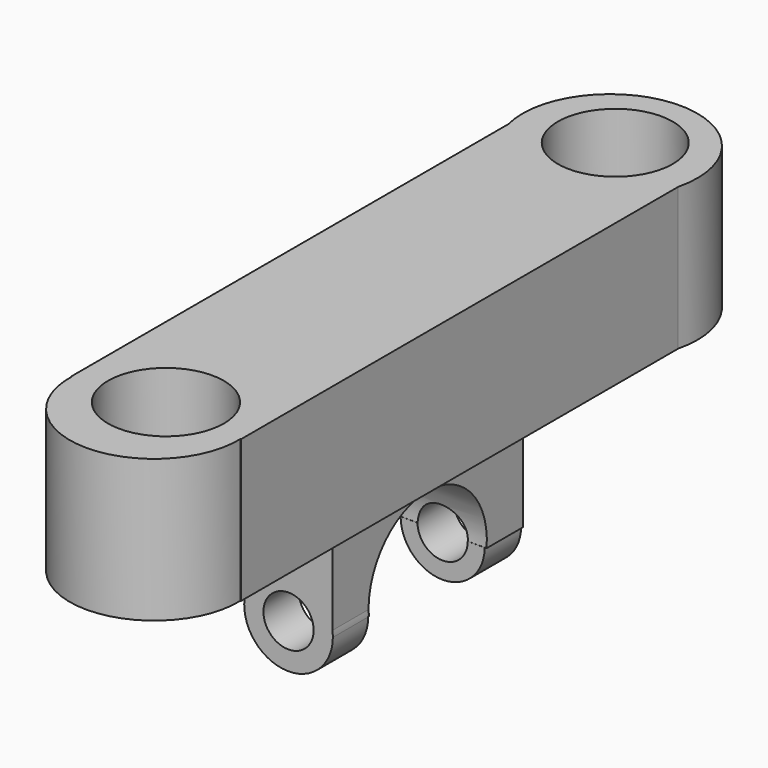
from build123d import *

# Parameters (mm, degrees)
F0_W      = 30.2820764482
F0_H      = 101.4822497964
F3_DEPTH  = 25.4
F2_R      = 15.0499216081
F4_DEPTH  = 25.4
F1_R      = 15.5943038306
F5_DEPTH  = 25.4
F6_R      = 10.2440117392
F7_DEPTH  = 49.022
F8_R      = 10.3251238381
F9_DEPTH  = 31.75
F10_W     = 15.6584940851
F10_H     = 42.4823574722
F11_DEPTH = 20.066
F12_R     = 13.1812227962
F13_DEPTH = 25.4
F14_DEPTH = 25.4
F16_DEPTH = 8.128
F18_DEPTH = 7.874
F19_R     = 4.4761775303
F20_DEPTH = 55.118


with BuildPart() as f3:
    # F0 (on Top) → F3 (new body)
    with BuildSketch(Plane.XY):
        Rectangle(F0_W, F0_H)
    extrude(amount=F3_DEPTH)

    # F2 (on Top) → F4 (join)
    with BuildSketch(Plane.XY):
        with Locations((0, -51.2032657862)):
            Circle(F2_R)
    extrude(amount=F4_DEPTH)

    # F1 (on Top) → F5 (join)
    with BuildSketch(Plane.XY):
        with Locations((0, 50.4214018583)):
            Circle(F1_R)
    extrude(amount=F5_DEPTH)

    # F6 (on Top) → F7 (cut)
    with BuildSketch(Plane.XY):
        with Locations((0, 51.5931844711)):
            Circle(F6_R)
    extrude(amount=F7_DEPTH, mode=Mode.SUBTRACT)

    # F8 (on Top) → F9 (cut)
    with BuildSketch(Plane.XY):
        with Locations((0, -48.5663115978)):
            Circle(F8_R)
    extrude(amount=F9_DEPTH, mode=Mode.SUBTRACT)

    # F10 (on Top) → F11 (join)
    with BuildSketch(Plane.XY):
        Rectangle(F10_W, F10_H)
    extrude(amount=-F11_DEPTH)

    # F12 (on Right) → F13 (cut)
    with BuildSketch(Plane.YZ):
        with Locations((0, -18.9247615635)):
            Circle(F12_R)
    extrude(amount=-F13_DEPTH, mode=Mode.SUBTRACT)

    # F14 (cut): a face of the model
    f14_faces = [f3.faces().sort_by_distance(p)[0] for p in [
        (0, 0, -13.9418780745),
    ]]
    extrude(f14_faces, amount=-F14_DEPTH, mode=Mode.SUBTRACT)

    # F15 (on face) → F16 (join)
    with BuildSketch(Plane(origin=(0, 21.2411787361, 0), x_dir=(-1, 0, 0), z_dir=(0, 1, 0))):
        with BuildLine():
            ThreePointArc((-7.4920039842, -20.066), (0, -27.5580039842), (7.4920039842, -20.066))
            Line((7.4920039842, -20.066), (-7.4920039842, -20.066))
        make_face()
    extrude(amount=-F16_DEPTH)

    # F17 (on face) → F18 (join)
    with BuildSketch(Plane.XZ.offset(21.2411787361)):
        with BuildLine():
            ThreePointArc((-7.8292470425, -18.9932599539), (-0.5376156021, -27.9500884016), (7.9023971338, -20.066))
            ThreePointArc((7.9023971338, -20.066), (7.8840884016, -19.5283843979), (7.8292470425, -18.9932599539))
            Line((7.8292470425, -18.9932599539), (7.8292470425, -20.066))
            Line((7.8292470425, -20.066), (-7.8292470425, -20.066))
            Line((-7.8292470425, -20.066), (-7.8292470425, -18.9932599539))
        make_face()
    extrude(amount=-F18_DEPTH)

    # F19 (on face) → F20 (cut)
    with BuildSketch(Plane.XZ.offset(21.2411787361)):
        with Locations((0, -20.066)):
            Circle(F19_R)
    extrude(amount=-F20_DEPTH, mode=Mode.SUBTRACT)


solid = f3.part
